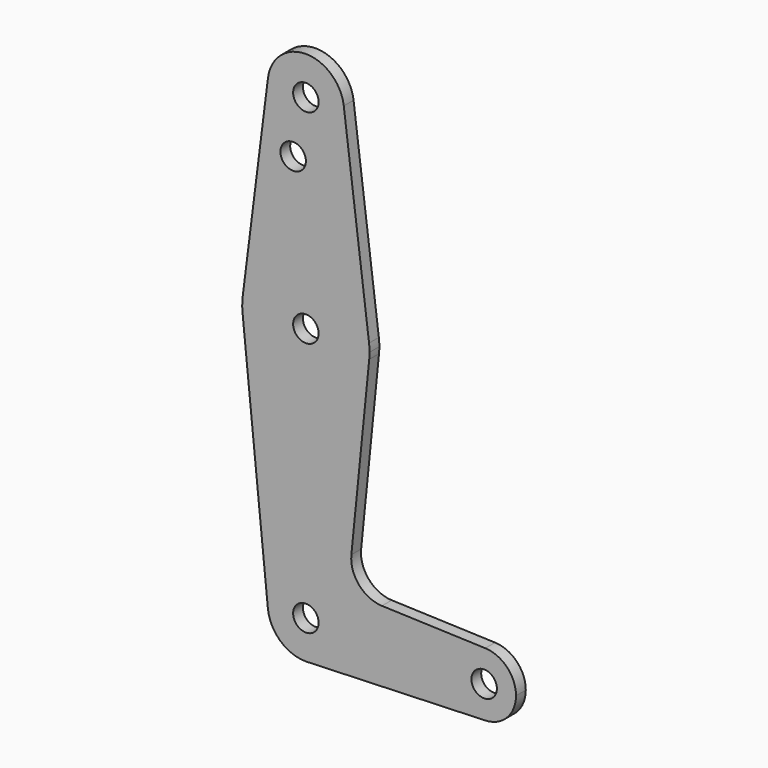
from build123d import *

# Parameters (mm, degrees)
F0_R     = 3.175
F1_DEPTH = 3.048


with BuildPart() as f1:
    # F0 (on Front) → F1 (new body)
    with BuildSketch(Plane.XZ):
        with BuildLine():
            ThreePointArc((-9.450293, 51.990625), (-0.596483, 41.293695), (9.525, 50.8))
            ThreePointArc((9.525, 50.8), (9.506305, 51.396483), (9.450293, 51.990625))
            ThreePointArc((9.450293, 51.990625), (0, 60.325), (-9.450293, 51.990625))
        make_face()
        with Locations((0, 50.8)):
            Circle(F0_R, mode=Mode.SUBTRACT)
        with BuildLine():
            ThreePointArc((9.450293, 51.990625), (9.506305, 51.396483), (9.525, 50.8))
            ThreePointArc((9.525, 50.8), (-0.596483, 41.293695), (-9.450293, 51.990625))
            Line((-9.450293, 51.990625), (-15.750488, 1.984375))
            ThreePointArc((-15.750488, 1.984375), (0, 15.875), (15.750488, 1.984375))
            Line((15.750488, 1.984375), (9.450293, 51.990625))
        make_face()
        with Locations((-3.175, 36.798529)):
            Circle(F0_R, mode=Mode.SUBTRACT)
        with BuildLine():
            ThreePointArc((15.875, 0), (15.843841, 0.994139), (15.750488, 1.984375))
            ThreePointArc((15.750488, 1.984375), (0, 15.875), (-15.750488, 1.984375))
            ThreePointArc((-15.750488, 1.984375), (-15.873744, 0.199705), (-15.795426, -1.5875))
            ThreePointArc((-15.795426, -1.5875), (0, -15.875), (15.795426, -1.5875))
            ThreePointArc((15.795426, -1.5875), (15.855094, -0.794747), (15.875, 0))
        make_face()
        Circle(F0_R, mode=Mode.SUBTRACT)
        with BuildLine():
            ThreePointArc((15.795426, -1.5875), (0, -15.875), (-15.795426, -1.5875))
            Line((-15.795426, -1.5875), (-9.477255, -64.4525))
            ThreePointArc((-9.477255, -64.4525), (-0.476848, -53.986944), (9.525, -63.5))
            ThreePointArc((9.525, -63.5), (6.970557, -69.991299), (0.677344, -73.000886))
            Line((0.677344, -73.000886), (44.732405, -71.432475))
            ThreePointArc((44.732405, -71.432475), (36.5125, -63.5), (44.732405, -55.567525))
            Line((44.732405, -55.567525), (18.968328, -54.650294))
            ThreePointArc((18.968328, -54.650294), (13.261204, -51.932537), (11.340836, -45.910108))
            Line((11.340836, -45.910108), (15.795426, -1.5875))
        make_face()
        with BuildLine():
            ThreePointArc((9.525, -63.5), (-0.476848, -53.986944), (-9.477255, -64.4525))
            ThreePointArc((-9.477255, -64.4525), (-6.389564, -70.563929), (0, -73.025))
            Line((0, -73.025), (0.677344, -73.000886))
            ThreePointArc((0.677344, -73.000886), (6.970557, -69.991299), (9.525, -63.5))
        make_face()
        with Locations((0, -63.5)):
            Circle(F0_R, mode=Mode.SUBTRACT)
        with BuildLine():
            Line((0.677344, -73.000886), (0, -73.025))
            ThreePointArc((0, -73.025), (0.338886, -73.01897), (0.677344, -73.000886))
        make_face()
        with BuildLine():
            ThreePointArc((52.3875, -63.5), (50.161633, -57.98809), (44.732405, -55.567525))
            ThreePointArc((44.732405, -55.567525), (36.5125, -63.5), (44.732405, -71.432475))
            ThreePointArc((44.732405, -71.432475), (50.161633, -69.01191), (52.3875, -63.5))
        make_face()
        with Locations((44.45, -63.5)):
            Circle(F0_R, mode=Mode.SUBTRACT)
    extrude(amount=F1_DEPTH)


solid = f1.part
